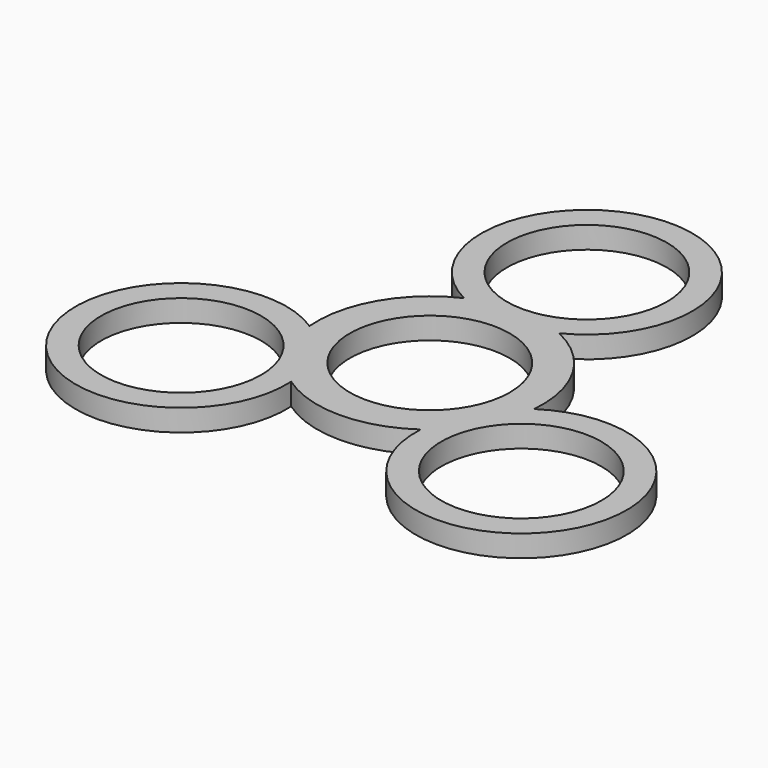
from build123d import *

# Parameters (mm, degrees)
F0_R     = 11
F1_DEPTH = 3


with BuildPart() as f1:
    # F0 (on Top) → F1 (new body)
    with BuildSketch(Plane.XY):
        with BuildLine():
            ThreePointArc((6.533862, 14.055556), (0, 41.5), (-6.533862, 14.055556))
            ThreePointArc((-6.533862, 14.055556), (-13.423394, 7.75), (-15.439399, -1.369287))
            ThreePointArc((-15.439399, -1.369287), (-35.940054, -20.75), (-8.905537, -12.686269))
            ThreePointArc((-8.905537, -12.686269), (0, -15.5), (8.905537, -12.686269))
            ThreePointArc((8.905537, -12.686269), (35.940054, -20.75), (15.439399, -1.369287))
            ThreePointArc((15.439399, -1.369287), (15.134581, 3.34581), (13.423394, 7.75))
            ThreePointArc((13.423394, 7.75), (10.464847, 11.434027), (6.533862, 14.055556))
        make_face()
        with Locations((-23.382686, -13.5)):
            Circle(F0_R, mode=Mode.SUBTRACT)
        with Locations((23.382686, -13.5)):
            Circle(F0_R, mode=Mode.SUBTRACT)
        Circle(F0_R, mode=Mode.SUBTRACT)
        with BuildLine():
            ThreePointArc((0, 16), (-7.778175, 34.778175), (11, 27))
            ThreePointArc((11, 27), (7.778175, 19.221825), (0, 16))
        make_face(mode=Mode.SUBTRACT)
    extrude(amount=F1_DEPTH)


solid = f1.part
